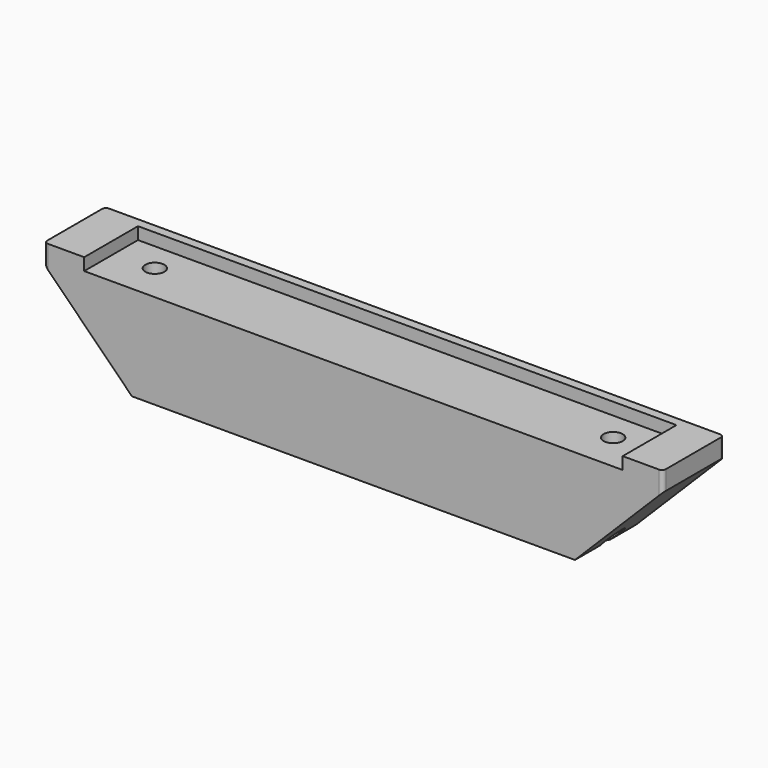
from build123d import *

# Parameters (mm, degrees)
SKETCH053_R     = 1.25
PAD016_DEPTH    = 14
SKETCH054_W     = 70.5
SKETCH054_H     = 33.8
POCKET031_DEPTH = 1.6
POCKET032_DEPTH = 125.001


with BuildPart() as part:
    # Sketch053 → Pad016 (new body)
    with BuildSketch(Plane.XY):
        with BuildLine():
            ThreePointArc((-40, 125), (-40.353553, 124.853553), (-40.5, 124.5))
            Line((-40.5, 115.5), (-40.5, 124.5))
            ThreePointArc((-40.5, 115.5), (-40.353553, 115.146447), (-40, 115))
            Line((40, 115), (-40, 115))
            ThreePointArc((40, 115), (40.353553, 115.146447), (40.5, 115.5))
            Line((40.5, 124.5), (40.5, 115.5))
            ThreePointArc((40.5, 124.5), (40.353553, 124.853553), (40, 125))
            Line((-40, 125), (40, 125))
        make_face()
        with Locations((-30, 120)):
            Circle(SKETCH053_R, mode=Mode.SUBTRACT)
        with Locations((30, 120)):
            Circle(SKETCH053_R, mode=Mode.SUBTRACT)
    extrude(amount=-PAD016_DEPTH)

    # Sketch054 → Pocket031 (cut)
    with BuildSketch(Plane.XY):
        with Locations((0, 106.9)):
            Rectangle(SKETCH054_W, SKETCH054_H)
    extrude(amount=-POCKET031_DEPTH, mode=Mode.SUBTRACT)

    # Sketch055 → Pocket032 (cut, through all)
    with BuildSketch(Plane.XZ):
        Polygon((-53, 10), (0, -43), (53, 10), (53, -60), (-53, -60), align=None)
    extrude(amount=-POCKET032_DEPTH, mode=Mode.SUBTRACT)


solid = part.part
